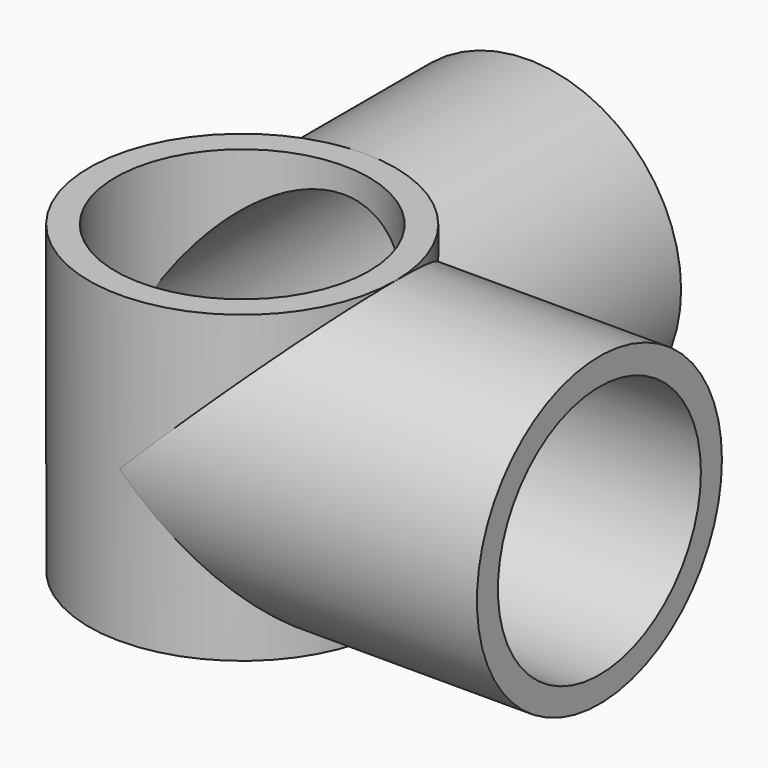
from build123d import *

# Parameters (mm, degrees)
SKETCH_R        = 29.15
PAD_DEPTH       = 58
SKETCH001_R     = 29.15
PAD001_DEPTH    = 68
SKETCH002_R     = 29.15
PAD002_DEPTH    = 68
SKETCH003_R     = 24.15
POCKET_DEPTH    = 58
SKETCH004_R     = 24.15
POCKET001_DEPTH = 68
SKETCH005_R     = 24.15
POCKET002_DEPTH = 68


with BuildPart() as part:
    # Sketch → Pad (new body)
    with BuildSketch(Plane.XY.offset(29.15)):
        Circle(SKETCH_R)
    extrude(amount=-PAD_DEPTH)

    # Sketch001 → Pad001 (join)
    with BuildSketch(Plane.XZ.offset(-68)):
        Circle(SKETCH001_R)
    extrude(amount=PAD001_DEPTH)

    # Sketch002 → Pad002 (join)
    with BuildSketch(Plane.YZ.offset(68)):
        Circle(SKETCH002_R)
    extrude(amount=-PAD002_DEPTH)

    # Sketch003 (on Face5 of Pad002) → Pocket (cut)
    with BuildSketch(Plane.XY.offset(29.15)):
        Circle(SKETCH003_R)
    extrude(amount=-POCKET_DEPTH, mode=Mode.SUBTRACT)

    # Sketch004 (on Face15 of Pocket) → Pocket001 (cut)
    with BuildSketch(Plane(origin=(68, 0, 29.15), x_dir=(0, 1, 0), z_dir=(1, 0, 0))):
        with Locations((0, -29.259423)):
            Circle(SKETCH004_R)
    extrude(amount=-POCKET001_DEPTH, mode=Mode.SUBTRACT)

    # Sketch005 (on Face7 of Pocket001) → Pocket002 (cut)
    with BuildSketch(Plane(origin=(0, 68, 29.15), x_dir=(-1, 0, 0), z_dir=(0, 1, 0))):
        with Locations((0, -28.95468)):
            Circle(SKETCH005_R)
    extrude(amount=-POCKET002_DEPTH, mode=Mode.SUBTRACT)


solid = part.part
